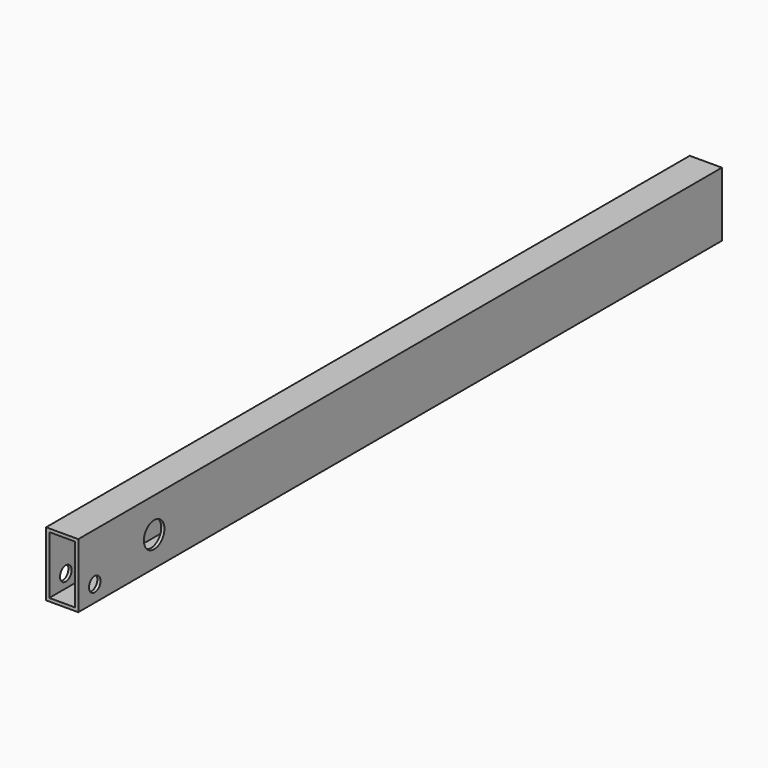
from build123d import *

# Parameters (mm, degrees)
F0_W     = 20
F0_H     = 40
F0_W_2   = 16
F0_H_2   = 36
F1_DEPTH = 500
F2_R     = 4.5
F2_R_2   = 8
F3_DEPTH = 25


with BuildPart() as f1:
    # F0 (on Front) → F1 (new body)
    with BuildSketch(Plane.XZ):
        with Locations((10, -20)):
            Rectangle(F0_W, F0_H)
        with Locations((10, -20)):
            Rectangle(F0_W_2, F0_H_2, mode=Mode.SUBTRACT)
    extrude(amount=F1_DEPTH)

    # F2 (on face) → F3 (cut)
    with BuildSketch(Plane(origin=(0, 0, 0), x_dir=(0, -1, 0), z_dir=(-1, 0, 0))):
        with Locations((487.16492, -29.815726)):
            Circle(F2_R)
        with Locations((441.037512, -21.502786)):
            Circle(F2_R_2)
    extrude(amount=-F3_DEPTH, mode=Mode.SUBTRACT)


solid = f1.part
